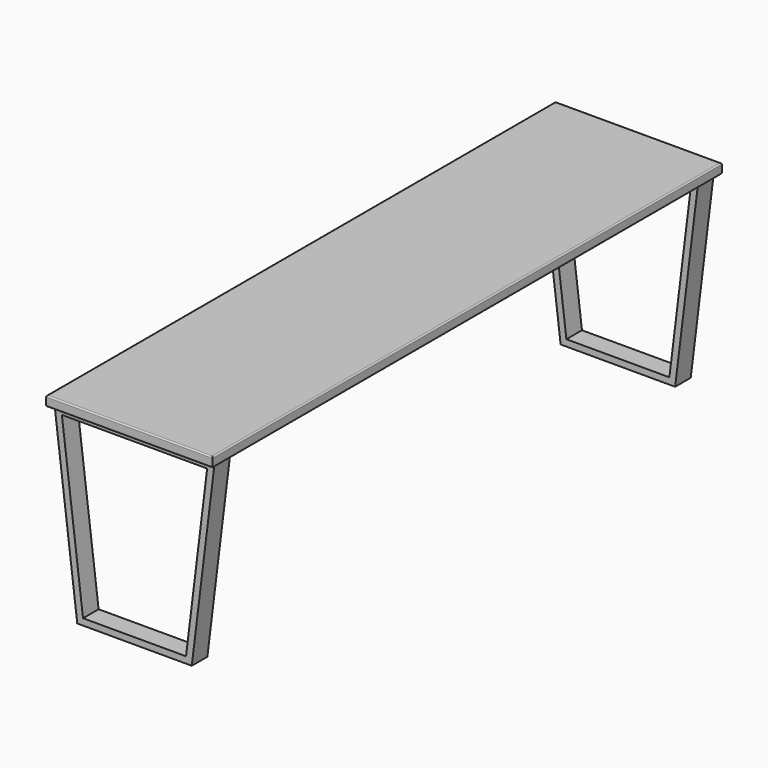
from build123d import *

# Parameters (mm, degrees)
F0_W     = 650.875
F0_H     = 38.1
F1_DEPTH = 1244.6
F2_R     = 5.08
F5_DEPTH = 76.2


with BuildPart() as f1:
    # F0 (on Front) → F1 (new body, symmetric)
    with BuildSketch(Plane.XZ):
        Rectangle(F0_W, F0_H)
    extrude(amount=F1_DEPTH, both=True)

    # F2
    f2_edges = [f1.edges().sort_by_distance(p)[0] for p in [
        (325.4375, 0, 19.05),
        (0, 1244.6, 19.05),
        (-325.4375, 0, 19.05),
        (0, -1244.6, 19.05),
        (0, 1244.6, -19.05),
        (325.4375, 0, -19.05),
        (0, -1244.6, -19.05),
        (-325.4375, 0, -19.05),
    ]]
    fillet(f2_edges, radius=F2_R)


with BuildPart() as f5:
    # F4 (on offset) → F5 (new body)
    with BuildSketch(Plane(origin=(0, 1219.2, 0), x_dir=(-1, 0, 0), z_dir=(0, 1, 0))):
        Polygon((312.7375, -19.05), (0, -19.05), (-312.7375, -19.05), (-223.8375, -742.95), (0, -742.95), (223.8375, -742.95), align=None)
        Polygon((-284.0273826674, -44.45), (0, -44.45), (284.0273826674, -44.45), (201.3659791586, -717.55), (0, -717.55), (-201.3659791586, -717.55), align=None, mode=Mode.SUBTRACT)
    extrude(amount=-F5_DEPTH)


with BuildPart() as f6_1:
    # F6: instance of F5
    add(f5.part.mirror(Plane.XZ))


solid = Compound([f1.part, f5.part, f6_1.part])
